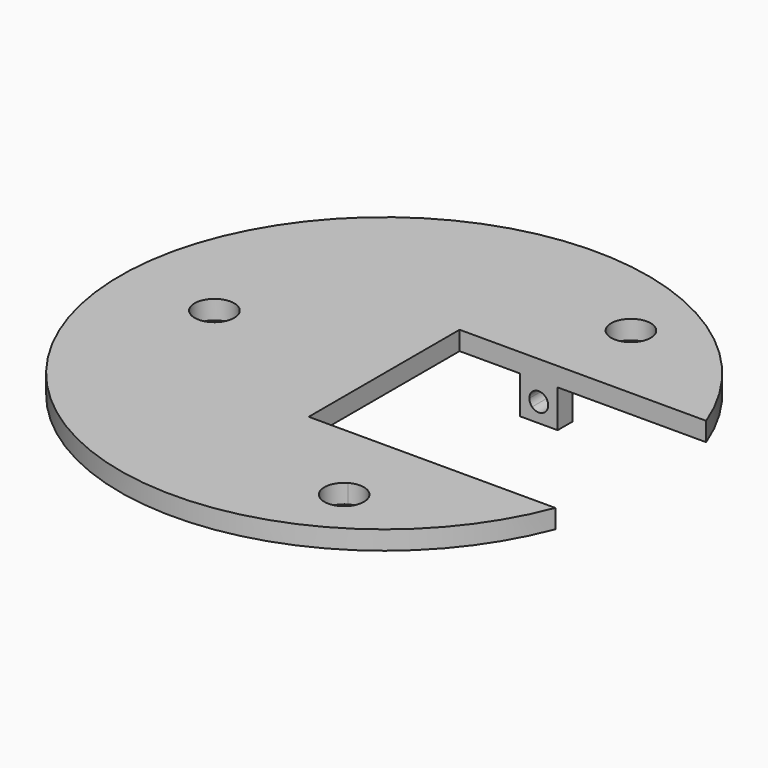
from build123d import *

# Parameters (mm, degrees)
F0_R     = 70
F1_DEPTH = 5
F2_R     = 5.25
F3_DEPTH = 25
F5_DEPTH = 25
F6_W     = 10
F6_H     = 5
F7_DEPTH = 10
F9_DEPTH = 75.4


with BuildPart() as f1:
    # F0 (on Top) → F1 (new body)
    with BuildSketch(Plane.XY):
        Circle(F0_R)
    extrude(amount=F1_DEPTH)

    # F2 (on face) → F3 (cut)
    with BuildSketch(Plane.XY.offset(5)):
        with Locations((-45, 0)):
            Circle(F2_R)
        with BuildLine():
            ThreePointArc((33.1841421179, 46.8794410023), (25.3091421179, 51.4260743721), (25.3091421179, 42.3328076324))
            ThreePointArc((25.3091421179, 42.3328076324), (30.5591421179, 42.3328076324), (33.1841421179, 46.8794410023))
        make_face()
        with BuildLine():
            ThreePointArc((32.75, -47.6313972081), (30.125, -43.0847638383), (24.875, -43.0847638383))
            ThreePointArc((24.875, -43.0847638383), (24.875, -52.178030578), (32.75, -47.6313972081))
        make_face()
    extrude(amount=-F3_DEPTH, mode=Mode.SUBTRACT)

    # F4 (on face) → F5 (cut)
    with BuildSketch(Plane.XY.offset(5)):
        with BuildLine():
            Line((65.3834841531, 25), (0, 25))
            Line((0, 25), (0, -25))
            Line((0, -25), (65.3834841531, -25))
            ThreePointArc((65.3834841531, -25), (68.8361964766, -12.7113356749), (70, 0))
            ThreePointArc((70, 0), (68.8361964766, 12.7113356749), (65.3834841531, 25))
        make_face()
    extrude(amount=-F5_DEPTH, mode=Mode.SUBTRACT)

    # F6 (on face) → F7 (join)
    with BuildSketch(Plane(origin=(0, 0, 0), x_dir=(1, 0, 0), z_dir=(0, 0, -1))):
        with Locations((21, -27.5)):
            Rectangle(F6_W, F6_H)
        with Locations((21, 27.5)):
            Rectangle(F6_W, F6_H)
    extrude(amount=F7_DEPTH)

    # F8 (on face) → F9 (cut)
    with BuildSketch(Plane(origin=(0, 30, 0), x_dir=(-1, 0, 0), z_dir=(0, 1, 0))):
        with BuildLine():
            Line((-21, -5), (-22.767766953, -3.232233047))
            ThreePointArc((-22.767766953, -3.232233047), (-23.5, -5), (-22.767766953, -6.767766953))
            Line((-22.767766953, -6.767766953), (-21, -5))
        make_face()
        with BuildLine():
            Line((-19.232233047, -3.232233047), (-21, -5))
            Line((-21, -5), (-19.232233047, -6.767766953))
            ThreePointArc((-19.232233047, -6.767766953), (-18.6903011687, -5.9567085809), (-18.5, -5))
            ThreePointArc((-18.5, -5), (-18.6903011687, -4.0432914191), (-19.232233047, -3.232233047))
        make_face()
        with BuildLine():
            Line((-19.232233047, -6.767766953), (-21, -5))
            Line((-21, -5), (-22.767766953, -6.767766953))
            ThreePointArc((-22.767766953, -6.767766953), (-21, -7.5), (-19.232233047, -6.767766953))
        make_face()
        with BuildLine():
            ThreePointArc((-19.232233047, -3.232233047), (-21, -2.5), (-22.767766953, -3.232233047))
            Line((-22.767766953, -3.232233047), (-21, -5))
            Line((-21, -5), (-19.232233047, -3.232233047))
        make_face()
    extrude(amount=-F9_DEPTH, mode=Mode.SUBTRACT)


solid = f1.part
